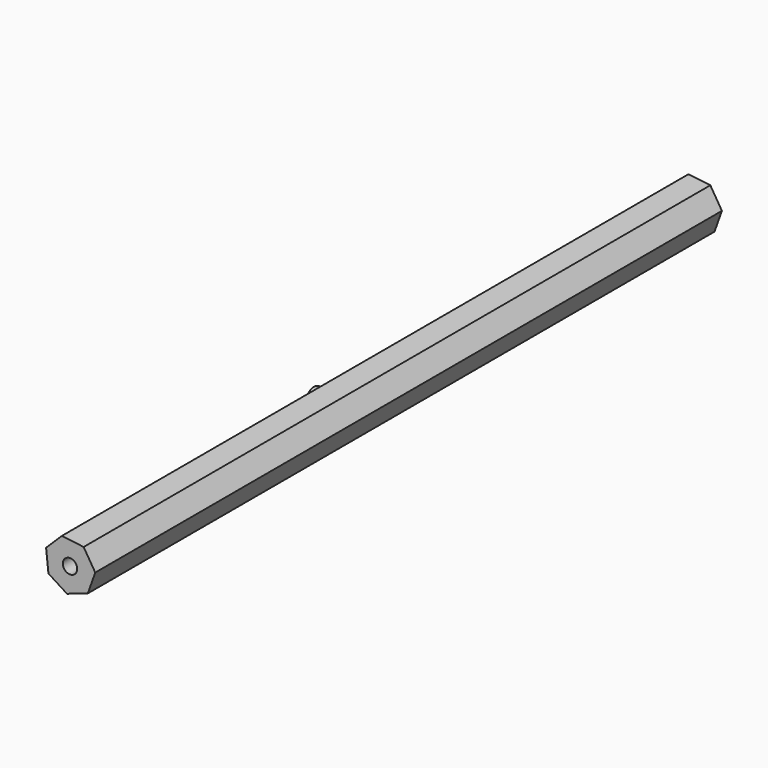
from build123d import *

# Parameters (mm, degrees)
F1_R     = 23.3578357485
F2_DEPTH = 1270
F3_R     = 35.7346583213
F4_DEPTH = 25.4


with BuildPart() as f2:
    # F1 (on face) → F2 (new body, symmetric)
    with BuildSketch(Plane.XZ):
        Polygon((81.899409343, 8.6979254562), (44.2631345498, 69.4546044391), (-26.7041833628, 77.9105496637), (-77.5627065371, 27.6982619059), (-70.0149296982, -43.3713820086), (-9.7444827522, -81.7814906557), (57.8637584574, -58.6084688007), align=None)
        Circle(F1_R, mode=Mode.SUBTRACT)
    extrude(amount=F2_DEPTH, both=True)

    # F3 (on face) → F4 (join)
    with BuildSketch(Plane(origin=(-73.7888181177, 0, -7.8365600513), x_dir=(0, -1, 0), z_dir=(-0.9944077718, 0, -0.1056086331))):
        with Locations((153.2169878483, 0)):
            Circle(F3_R)
    extrude(amount=F4_DEPTH)


solid = f2.part
